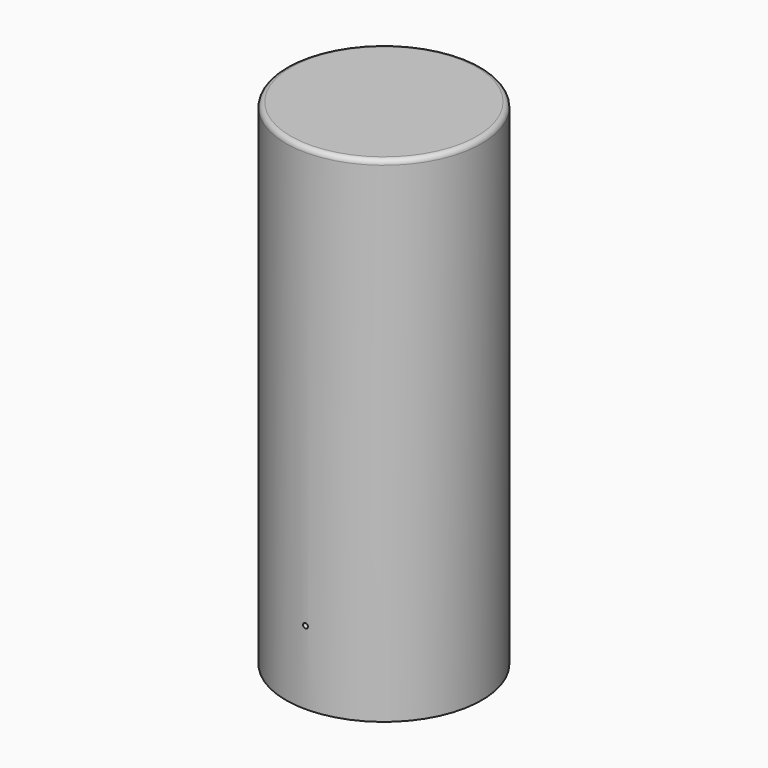
from build123d import *

# Parameters (mm, degrees)
F0_W     = 40
F0_H     = 50
F0_H_2   = 150
F3_R     = 2
F2_R     = 40
F4_DEPTH = 23
F7_DEPTH = 25


with BuildPart() as f1:
    # F0 (on Front) → F1 (revolve)
    with BuildSketch(Plane.XZ):
        with Locations((-20, 25)):
            Rectangle(F0_W, F0_H)
        with Locations((-20, -75)):
            Rectangle(F0_W, F0_H_2)
    revolve(axis=Axis((0, 0, -53.9682246745), (0, 0, -1)))

    # F3
    f3_edges = [f1.edges().sort_by_distance(p)[0] for p in [
        (40, 0, 50),
    ]]
    fillet(f3_edges, radius=F3_R)

    # F2 (on face) → F4 (cut)
    with BuildSketch(Plane(origin=(0, 0, -150), x_dir=(1, 0, 0), z_dir=(0, 0, -1))):
        Circle(F2_R)
    extrude(amount=-F4_DEPTH, mode=Mode.SUBTRACT)

    # F5 (on Right) → F6 (revolve, cut)
    with BuildSketch(Plane.YZ):
        with BuildLine():
            ThreePointArc((-40, -121), (-41, -122), (-40, -123))
            Line((-40, -123), (-40, -122))
            Line((-40, -122), (-40, -121))
        make_face()
    revolve(axis=Axis((0, -40, -39.5), (0, 0, 1)), mode=Mode.SUBTRACT)

    # F7 (add): a face of the model
    f7_faces = [f1.faces().sort_by_distance(p)[0] for p in [
        (0, 0, -127),
    ]]
    extrude(f7_faces, amount=F7_DEPTH)


solid = f1.part
